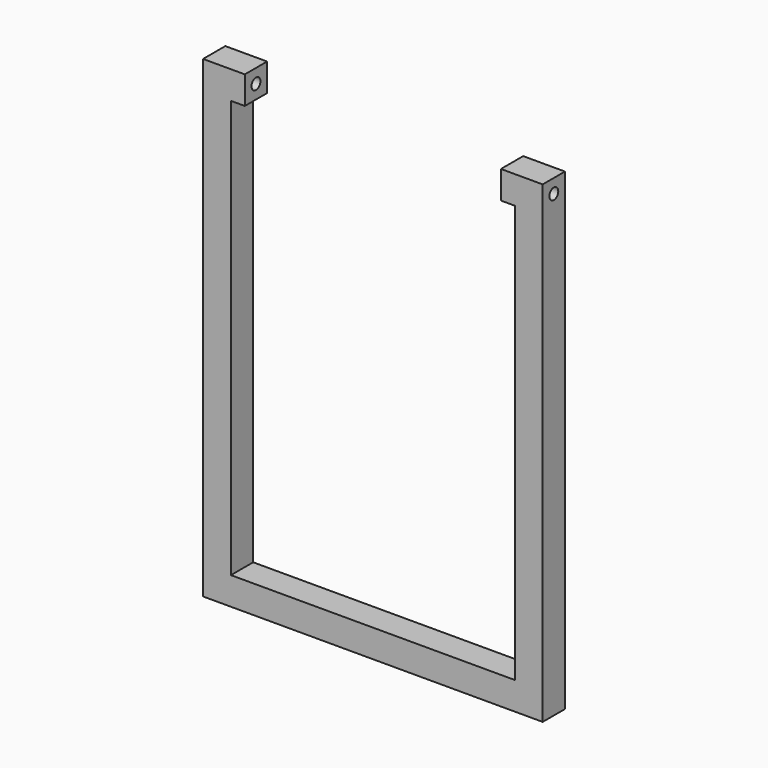
from build123d import *

# Parameters (mm, degrees)
F1_DEPTH      = 10
F2_R          = 2
F3_DEPTH      = 15.001
F3_DEPTH_BACK = 107.001


with BuildPart() as f1:
    # F0 (on Front) → F1 (new body)
    with BuildSketch(Plane.XZ):
        Polygon((-61, 170), (-61, 0), (61, 0), (61, 170), (46, 170), (46, 160), (51, 160), (51, 10), (0, 10), (-51, 10), (-51, 160), (-46, 160), (-46, 170), align=None)
    extrude(amount=F1_DEPTH)

    # F2 (on face) → F3 (cut, two sides)
    with BuildSketch(Plane.YZ.offset(-46)) as f3_sk:
        with Locations((-5, 165)):
            Circle(F2_R)
    extrude(amount=-F3_DEPTH, mode=Mode.SUBTRACT)
    extrude(f3_sk.sketch, amount=F3_DEPTH_BACK, mode=Mode.SUBTRACT)


solid = f1.part
